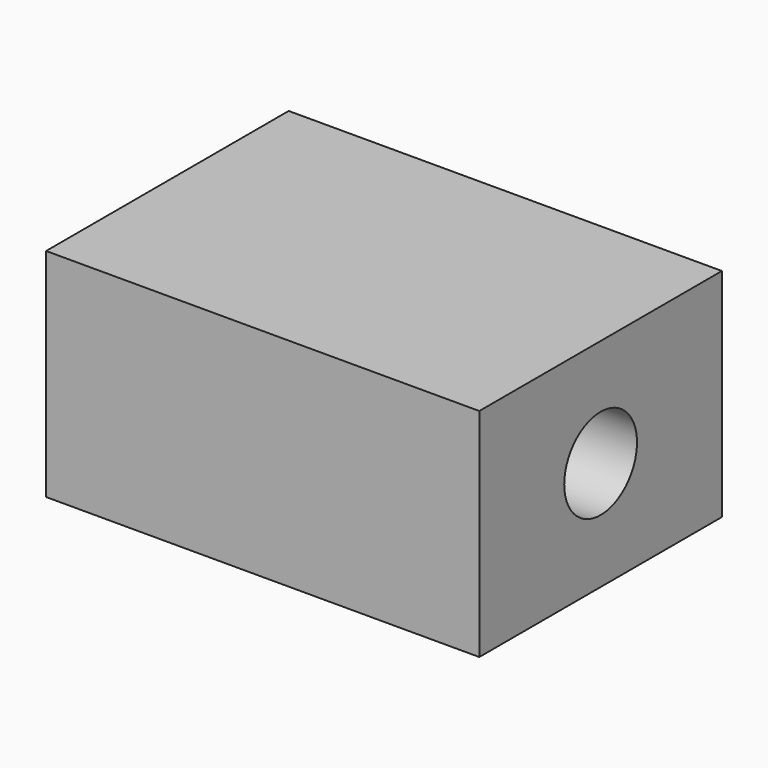
from build123d import *

# Parameters (mm, degrees)
SKETCH007_R      = 1.05
EXTRUDE006_DEPTH = 20
SKETCH009_W      = 10
SKETCH009_H      = 7
EXTRUDE007_DEPTH = 5


with BuildPart() as extrude006:
    # Sketch007 → Extrude006 (new body)
    with BuildSketch(Plane(origin=(-30.396078, 0, 0), x_dir=(0, -1, 0), z_dir=(-1, 0, 0))):
        with Locations((0, 27.512153)):
            Circle(SKETCH007_R)
    extrude(amount=-EXTRUDE006_DEPTH)


with BuildPart() as extrude006_1:
    # Extrude006 placement: moved
    add(extrude006.part.moved(Location((-1, 0, 0))))


with BuildPart() as cut001:
    # Sketch009 (on Face4 of Cut) → Extrude007 (new body)
    with BuildSketch(Plane(origin=(0, 0, 30), x_dir=(1, 0, 0), z_dir=(0, 0, -1))):
        with Locations((-25.706279, 0)):
            Rectangle(SKETCH009_W, SKETCH009_H)
    extrude(amount=EXTRUDE007_DEPTH)

    # Cut001: cut Extrude006
    add(extrude006_1.part, mode=Mode.SUBTRACT)


solid = cut001.part
